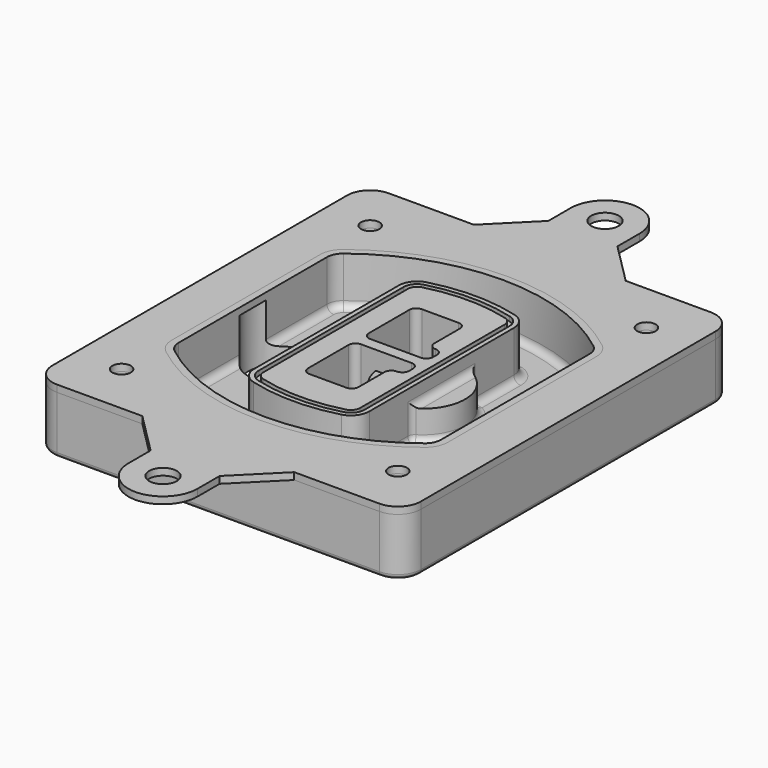
from build123d import *

# Parameters (mm, degrees)
F0_R      = 4
F1_DEPTH  = 25
F2_DEPTH  = 3
F3_DEPTH  = 18
F5_DEPTH  = 21
F6_DEPTH  = 2
F8_DEPTH  = 20
F9_DEPTH  = 16
F10_DEPTH = 25
F7_R      = 6
F7_R_2    = 4
F11_DEPTH = 6
F13_DEPTH = 9
F14_R     = 3
F15_R     = 2
F16_R     = 6
F16_R_2   = 4
F17_DEPTH = 3


with BuildPart() as f1:
    # F0 (on Top) → F1 (new body)
    with BuildSketch(Plane.XY):
        with BuildLine():
            ThreePointArc((-80, -80), (-77.0710678119, -87.0710678119), (-70, -90))
            Line((-70, -90), (70, -90))
            ThreePointArc((70, -90), (77.0710678119, -87.0710678119), (80, -80))
            Line((80, -80), (80, 80))
            ThreePointArc((80, 80), (77.0710678119, 87.0710678119), (70, 90))
            Line((70, 90), (-70, 90))
            ThreePointArc((-70, 90), (-77.0710678119, 87.0710678119), (-80, 80))
            Line((-80, 80), (-80, -80))
        make_face()
        with Locations((-60, -67.5)):
            Circle(F0_R, mode=Mode.SUBTRACT)
        with Locations((60, -67.5)):
            Circle(F0_R, mode=Mode.SUBTRACT)
        with Locations((-60, 67.5)):
            Circle(F0_R, mode=Mode.SUBTRACT)
        with BuildLine():
            ThreePointArc((-64, 40.2934422872), (-62.5820384798, 46.4328484224), (-58.6153846154, 51.3286200352))
            ThreePointArc((-58.6153846154, 51.3286200352), (0, 71.5), (58.6153846154, 51.3286200352))
            ThreePointArc((58.6153846154, 51.3286200352), (62.5820384798, 46.4328484224), (64, 40.2934422872))
            Line((64, 40.2934422872), (64, -40.2934422872))
            ThreePointArc((64, -40.2934422872), (62.5820384798, -46.4328484224), (58.6153846154, -51.3286200352))
            ThreePointArc((58.6153846154, -51.3286200352), (0, -71.5), (-58.6153846154, -51.3286200352))
            ThreePointArc((-58.6153846154, -51.3286200352), (-62.5820384798, -46.4328484224), (-64, -40.2934422872))
            Line((-64, -40.2934422872), (-64, 40.2934422872))
        make_face(mode=Mode.SUBTRACT)
        with Locations((60, 67.5)):
            Circle(F0_R, mode=Mode.SUBTRACT)
        with BuildLine():
            ThreePointArc((58.6153846154, 51.3286200352), (0, 71.5), (-58.6153846154, 51.3286200352))
            ThreePointArc((-58.6153846154, 51.3286200352), (-62.5820384798, 46.4328484224), (-64, 40.2934422872))
            Line((-64, 40.2934422872), (-64, -40.2934422872))
            ThreePointArc((-64, -40.2934422872), (-62.5820384798, -46.4328484224), (-58.6153846154, -51.3286200352))
            ThreePointArc((-58.6153846154, -51.3286200352), (0, -71.5), (58.6153846154, -51.3286200352))
            ThreePointArc((58.6153846154, -51.3286200352), (62.5820384798, -46.4328484224), (64, -40.2934422872))
            Line((64, -40.2934422872), (64, 40.2934422872))
            ThreePointArc((64, 40.2934422872), (62.5820384798, 46.4328484224), (58.6153846154, 51.3286200352))
        make_face()
        with BuildLine():
            Line((-60, -40.2934422872), (-60, 40.2934422872))
            ThreePointArc((-60, 40.2934422872), (-58.9871703427, 44.6787323838), (-56.1538461538, 48.1757121072))
            ThreePointArc((-56.1538461538, 48.1757121072), (0, 67.5), (56.1538461538, 48.1757121072))
            ThreePointArc((56.1538461538, 48.1757121072), (58.9871703427, 44.6787323838), (60, 40.2934422872))
            Line((60, 40.2934422872), (60, -40.2934422872))
            ThreePointArc((60, -40.2934422872), (58.9871703427, -44.6787323838), (56.1538461538, -48.1757121072))
            ThreePointArc((56.1538461538, -48.1757121072), (0, -67.5), (-56.1538461538, -48.1757121072))
            ThreePointArc((-56.1538461538, -48.1757121072), (-58.9871703427, -44.6787323838), (-60, -40.2934422872))
        make_face(mode=Mode.SUBTRACT)
        with BuildLine():
            ThreePointArc((-56.1538461538, 48.1757121072), (-58.9871703427, 44.6787323838), (-60, 40.2934422872))
            Line((-60, 40.2934422872), (-60, -40.2934422872))
            ThreePointArc((-60, -40.2934422872), (-58.9871703427, -44.6787323838), (-56.1538461538, -48.1757121072))
            ThreePointArc((-56.1538461538, -48.1757121072), (0, -67.5), (56.1538461538, -48.1757121072))
            ThreePointArc((56.1538461538, -48.1757121072), (58.9871703427, -44.6787323838), (60, -40.2934422872))
            Line((60, -40.2934422872), (60, 40.2934422872))
            ThreePointArc((60, 40.2934422872), (58.9871703427, 44.6787323838), (56.1538461538, 48.1757121072))
            ThreePointArc((56.1538461538, 48.1757121072), (0, 67.5), (-56.1538461538, 48.1757121072))
        make_face()
        with BuildLine():
            ThreePointArc((54.3076923077, 45.8110311612), (56.2910192399, 43.3631453548), (57, 40.2934422872))
            Line((57, 40.2934422872), (57, -40.2934422872))
            ThreePointArc((57, -40.2934422872), (56.2910192399, -43.3631453548), (54.3076923077, -45.8110311612))
            ThreePointArc((54.3076923077, -45.8110311612), (0, -64.5), (-54.3076923077, -45.8110311612))
            ThreePointArc((-54.3076923077, -45.8110311612), (-56.2910192399, -43.3631453548), (-57, -40.2934422872))
            Line((-57, -40.2934422872), (-57, 40.2934422872))
            ThreePointArc((-57, 40.2934422872), (-56.2910192399, 43.3631453548), (-54.3076923077, 45.8110311612))
            ThreePointArc((-54.3076923077, 45.8110311612), (0, 64.5), (54.3076923077, 45.8110311612))
        make_face(mode=Mode.SUBTRACT)
        with BuildLine():
            Line((57, -40.2934422872), (57, 40.2934422872))
            ThreePointArc((57, 40.2934422872), (56.2910192399, 43.3631453548), (54.3076923077, 45.8110311612))
            ThreePointArc((54.3076923077, 45.8110311612), (0, 64.5), (-54.3076923077, 45.8110311612))
            ThreePointArc((-54.3076923077, 45.8110311612), (-56.2910192399, 43.3631453548), (-57, 40.2934422872))
            Line((-57, 40.2934422872), (-57, -40.2934422872))
            ThreePointArc((-57, -40.2934422872), (-56.2910192399, -43.3631453548), (-54.3076923077, -45.8110311612))
            ThreePointArc((-54.3076923077, -45.8110311612), (0, -64.5), (54.3076923077, -45.8110311612))
            ThreePointArc((54.3076923077, -45.8110311612), (56.2910192399, -43.3631453548), (57, -40.2934422872))
        make_face()
    extrude(amount=-F1_DEPTH)

    # F0 (on Top) → F2 (join)
    with BuildSketch(Plane.XY):
        with BuildLine():
            ThreePointArc((-56.1538461538, 48.1757121072), (-58.9871703427, 44.6787323838), (-60, 40.2934422872))
            Line((-60, 40.2934422872), (-60, -40.2934422872))
            ThreePointArc((-60, -40.2934422872), (-58.9871703427, -44.6787323838), (-56.1538461538, -48.1757121072))
            ThreePointArc((-56.1538461538, -48.1757121072), (0, -67.5), (56.1538461538, -48.1757121072))
            ThreePointArc((56.1538461538, -48.1757121072), (58.9871703427, -44.6787323838), (60, -40.2934422872))
            Line((60, -40.2934422872), (60, 40.2934422872))
            ThreePointArc((60, 40.2934422872), (58.9871703427, 44.6787323838), (56.1538461538, 48.1757121072))
            ThreePointArc((56.1538461538, 48.1757121072), (0, 67.5), (-56.1538461538, 48.1757121072))
        make_face()
        with BuildLine():
            ThreePointArc((54.3076923077, 45.8110311612), (56.2910192399, 43.3631453548), (57, 40.2934422872))
            Line((57, 40.2934422872), (57, -40.2934422872))
            ThreePointArc((57, -40.2934422872), (56.2910192399, -43.3631453548), (54.3076923077, -45.8110311612))
            ThreePointArc((54.3076923077, -45.8110311612), (0, -64.5), (-54.3076923077, -45.8110311612))
            ThreePointArc((-54.3076923077, -45.8110311612), (-56.2910192399, -43.3631453548), (-57, -40.2934422872))
            Line((-57, -40.2934422872), (-57, 40.2934422872))
            ThreePointArc((-57, 40.2934422872), (-56.2910192399, 43.3631453548), (-54.3076923077, 45.8110311612))
            ThreePointArc((-54.3076923077, 45.8110311612), (0, 64.5), (54.3076923077, 45.8110311612))
        make_face(mode=Mode.SUBTRACT)
    extrude(amount=F2_DEPTH)

    # F0 (on Top) → F3 (cut)
    with BuildSketch(Plane.XY):
        with BuildLine():
            Line((57, -40.2934422872), (57, 40.2934422872))
            ThreePointArc((57, 40.2934422872), (56.2910192399, 43.3631453548), (54.3076923077, 45.8110311612))
            ThreePointArc((54.3076923077, 45.8110311612), (0, 64.5), (-54.3076923077, 45.8110311612))
            ThreePointArc((-54.3076923077, 45.8110311612), (-56.2910192399, 43.3631453548), (-57, 40.2934422872))
            Line((-57, 40.2934422872), (-57, -40.2934422872))
            ThreePointArc((-57, -40.2934422872), (-56.2910192399, -43.3631453548), (-54.3076923077, -45.8110311612))
            ThreePointArc((-54.3076923077, -45.8110311612), (0, -64.5), (54.3076923077, -45.8110311612))
            ThreePointArc((54.3076923077, -45.8110311612), (56.2910192399, -43.3631453548), (57, -40.2934422872))
        make_face()
    extrude(amount=-F3_DEPTH, mode=Mode.SUBTRACT)

    # F4 (on face) → F5 (join, through all)
    with BuildSketch(Plane.XY.offset(3)):
        with BuildLine():
            ThreePointArc((-25, -39.2465276821), (-23.3511545998, -44.1109737193), (-19.0842911877, -46.9702398883))
            ThreePointArc((-19.0842911877, -46.9702398883), (0, -49.5), (19.0842911877, -46.9702398883))
            ThreePointArc((19.0842911877, -46.9702398883), (23.3511545998, -44.1109737193), (25, -39.2465276821))
            Line((25, -39.2465276821), (25, 39.2465276821))
            ThreePointArc((25, 39.2465276821), (23.3511545998, 44.1109737193), (19.0842911877, 46.9702398883))
            ThreePointArc((19.0842911877, 46.9702398883), (0, 49.5), (-19.0842911877, 46.9702398883))
            ThreePointArc((-19.0842911877, 46.9702398883), (-23.3511545998, 44.1109737193), (-25, 39.2465276821))
            Line((-25, 39.2465276821), (-25, -39.2465276821))
        make_face()
        with BuildLine():
            ThreePointArc((18.5632183908, 45.0393118368), (21.7633659499, 42.89486221), (23, 39.2465276821))
            Line((23, 39.2465276821), (23, -39.2465276821))
            ThreePointArc((23, -39.2465276821), (21.7633659499, -42.89486221), (18.5632183908, -45.0393118368))
            ThreePointArc((18.5632183908, -45.0393118368), (0, -47.5), (-18.5632183908, -45.0393118368))
            ThreePointArc((-18.5632183908, -45.0393118368), (-21.7633659499, -42.89486221), (-23, -39.2465276821))
            Line((-23, -39.2465276821), (-23, 39.2465276821))
            ThreePointArc((-23, 39.2465276821), (-21.7633659499, 42.89486221), (-18.5632183908, 45.0393118368))
            ThreePointArc((-18.5632183908, 45.0393118368), (0, 47.5), (18.5632183908, 45.0393118368))
        make_face(mode=Mode.SUBTRACT)
        with BuildLine():
            Line((23, -39.2465276821), (23, 39.2465276821))
            ThreePointArc((23, 39.2465276821), (21.7633659499, 42.89486221), (18.5632183908, 45.0393118368))
            ThreePointArc((18.5632183908, 45.0393118368), (0, 47.5), (-18.5632183908, 45.0393118368))
            ThreePointArc((-18.5632183908, 45.0393118368), (-21.7633659499, 42.89486221), (-23, 39.2465276821))
            Line((-23, 39.2465276821), (-23, -39.2465276821))
            ThreePointArc((-23, -39.2465276821), (-21.7633659499, -42.89486221), (-18.5632183908, -45.0393118368))
            ThreePointArc((-18.5632183908, -45.0393118368), (0, -47.5), (18.5632183908, -45.0393118368))
            ThreePointArc((18.5632183908, -45.0393118368), (21.7633659499, -42.89486221), (23, -39.2465276821))
        make_face()
        with BuildLine():
            ThreePointArc((18.0421455939, 43.1083837852), (20.1755772999, 41.6787507007), (21, 39.2465276821))
            Line((21, 39.2465276821), (21, -39.2465276821))
            ThreePointArc((21, -39.2465276821), (20.1755772999, -41.6787507007), (18.0421455939, -43.1083837852))
            ThreePointArc((18.0421455939, -43.1083837852), (0, -45.5), (-18.0421455939, -43.1083837852))
            ThreePointArc((-18.0421455939, -43.1083837852), (-20.1755772999, -41.6787507007), (-21, -39.2465276821))
            Line((-21, -39.2465276821), (-21, 39.2465276821))
            ThreePointArc((-21, 39.2465276821), (-20.1755772999, 41.6787507007), (-18.0421455939, 43.1083837852))
            ThreePointArc((-18.0421455939, 43.1083837852), (0, 45.5), (18.0421455939, 43.1083837852))
        make_face(mode=Mode.SUBTRACT)
        with BuildLine():
            Line((21, -39.2465276821), (21, 39.2465276821))
            ThreePointArc((21, 39.2465276821), (20.1755772999, 41.6787507007), (18.0421455939, 43.1083837852))
            ThreePointArc((18.0421455939, 43.1083837852), (0, 45.5), (-18.0421455939, 43.1083837852))
            ThreePointArc((-18.0421455939, 43.1083837852), (-20.1755772999, 41.6787507007), (-21, 39.2465276821))
            Line((-21, 39.2465276821), (-21, -39.2465276821))
            ThreePointArc((-21, -39.2465276821), (-20.1755772999, -41.6787507007), (-18.0421455939, -43.1083837852))
            ThreePointArc((-18.0421455939, -43.1083837852), (0, -45.5), (18.0421455939, -43.1083837852))
            ThreePointArc((18.0421455939, -43.1083837852), (20.1755772999, -41.6787507007), (21, -39.2465276821))
        make_face()
        with BuildLine():
            Line((-8, -2.5), (14, -2.5))
            ThreePointArc((14, -2.5), (16.1213203436, -3.3786796564), (17, -5.5))
            Line((17, -5.5), (17, -7.5))
            ThreePointArc((17, -7.5), (16.1213203436, -9.6213203436), (14, -10.5))
            ThreePointArc((14, -10.5), (11.8786796564, -11.3786796564), (11, -13.5))
            Line((11, -13.5), (11, -27.5))
            ThreePointArc((11, -27.5), (10.1213203436, -29.6213203436), (8, -30.5))
            Line((8, -30.5), (-8, -30.5))
            ThreePointArc((-8, -30.5), (-10.1213203436, -29.6213203436), (-11, -27.5))
            Line((-11, -27.5), (-11, -5.5))
            ThreePointArc((-11, -5.5), (-10.1213203436, -3.3786796564), (-8, -2.5))
        make_face(mode=Mode.SUBTRACT)
        with BuildLine():
            ThreePointArc((-8, 2.5), (-10.1213203436, 3.3786796564), (-11, 5.5))
            Line((-11, 5.5), (-11, 27.5))
            ThreePointArc((-11, 27.5), (-10.1213203436, 29.6213203436), (-8, 30.5))
            Line((-8, 30.5), (8, 30.5))
            ThreePointArc((8, 30.5), (10.1213203436, 29.6213203436), (11, 27.5))
            Line((11, 27.5), (11, 13.5))
            ThreePointArc((11, 13.5), (11.8786796564, 11.3786796564), (14, 10.5))
            ThreePointArc((14, 10.5), (16.1213203436, 9.6213203436), (17, 7.5))
            Line((17, 7.5), (17, 5.5))
            ThreePointArc((17, 5.5), (16.1213203436, 3.3786796564), (14, 2.5))
            Line((14, 2.5), (-8, 2.5))
        make_face(mode=Mode.SUBTRACT)
    extrude(amount=-F5_DEPTH)

    # F4 (on face) → F6 (cut)
    with BuildSketch(Plane.XY.offset(3)):
        with BuildLine():
            Line((23, -39.2465276821), (23, 39.2465276821))
            ThreePointArc((23, 39.2465276821), (21.7633659499, 42.89486221), (18.5632183908, 45.0393118368))
            ThreePointArc((18.5632183908, 45.0393118368), (0, 47.5), (-18.5632183908, 45.0393118368))
            ThreePointArc((-18.5632183908, 45.0393118368), (-21.7633659499, 42.89486221), (-23, 39.2465276821))
            Line((-23, 39.2465276821), (-23, -39.2465276821))
            ThreePointArc((-23, -39.2465276821), (-21.7633659499, -42.89486221), (-18.5632183908, -45.0393118368))
            ThreePointArc((-18.5632183908, -45.0393118368), (0, -47.5), (18.5632183908, -45.0393118368))
            ThreePointArc((18.5632183908, -45.0393118368), (21.7633659499, -42.89486221), (23, -39.2465276821))
        make_face()
        with BuildLine():
            ThreePointArc((18.0421455939, 43.1083837852), (20.1755772999, 41.6787507007), (21, 39.2465276821))
            Line((21, 39.2465276821), (21, -39.2465276821))
            ThreePointArc((21, -39.2465276821), (20.1755772999, -41.6787507007), (18.0421455939, -43.1083837852))
            ThreePointArc((18.0421455939, -43.1083837852), (0, -45.5), (-18.0421455939, -43.1083837852))
            ThreePointArc((-18.0421455939, -43.1083837852), (-20.1755772999, -41.6787507007), (-21, -39.2465276821))
            Line((-21, -39.2465276821), (-21, 39.2465276821))
            ThreePointArc((-21, 39.2465276821), (-20.1755772999, 41.6787507007), (-18.0421455939, 43.1083837852))
            ThreePointArc((-18.0421455939, 43.1083837852), (0, 45.5), (18.0421455939, 43.1083837852))
        make_face(mode=Mode.SUBTRACT)
    extrude(amount=-F6_DEPTH, mode=Mode.SUBTRACT)

    # F7 (on face) → F8 (join)
    with BuildSketch(Plane(origin=(0, 0, -25), x_dir=(1, 0, 0), z_dir=(0, 0, -1))):
        with BuildLine():
            ThreePointArc((3.28842436, 0), (16.7567035675, 13.4682792075), (30.224982775, 0))
            Line((30.224982775, 0), (35.224982775, 0))
            ThreePointArc((35.224982775, 0), (16.7567035675, 18.4682792075), (-1.71157564, 0))
            Line((-1.71157564, 0), (3.28842436, 0))
        make_face()
        with BuildLine():
            Line((3.28842436, 0), (30.224982775, 0))
            ThreePointArc((30.224982775, 0), (16.7567035675, 13.4682792075), (3.28842436, 0))
        make_face()
        with BuildLine():
            ThreePointArc((3.28842436, 0), (16.7567035675, -13.4682792075), (30.224982775, 0))
            Line((30.224982775, 0), (3.28842436, 0))
        make_face()
        with BuildLine():
            Line((35.224982775, 0), (30.224982775, 0))
            ThreePointArc((30.224982775, 0), (16.7567035675, -13.4682792075), (3.28842436, 0))
            Line((3.28842436, 0), (-1.71157564, 0))
            ThreePointArc((-1.71157564, 0), (16.7567035675, -18.4682792075), (35.224982775, 0))
        make_face()
    extrude(amount=-F8_DEPTH)

    # F7 (on face) → F9 (cut)
    with BuildSketch(Plane(origin=(0, 0, -25), x_dir=(1, 0, 0), z_dir=(0, 0, -1))):
        with BuildLine():
            Line((3.28842436, 0), (30.224982775, 0))
            ThreePointArc((30.224982775, 0), (16.7567035675, 13.4682792075), (3.28842436, 0))
        make_face()
        with BuildLine():
            ThreePointArc((3.28842436, 0), (16.7567035675, -13.4682792075), (30.224982775, 0))
            Line((30.224982775, 0), (3.28842436, 0))
        make_face()
    extrude(amount=-F9_DEPTH, mode=Mode.SUBTRACT)

    # F7 (on face) → F10 (cut)
    with BuildSketch(Plane(origin=(0, 0, -25), x_dir=(1, 0, 0), z_dir=(0, 0, -1))):
        with BuildLine():
            Line((-59.0318229325, 0), (-32.0952645175, 0))
            ThreePointArc((-32.0952645175, 0), (-45.563543725, 13.4682792075), (-59.0318229325, 0))
        make_face()
        with BuildLine():
            ThreePointArc((-59.0318229325, 0), (-45.563543725, -13.4682792075), (-32.0952645175, 0))
            Line((-32.0952645175, 0), (-59.0318229325, 0))
        make_face()
    extrude(amount=-F10_DEPTH, mode=Mode.SUBTRACT)

    # F7 (on face) → F11 (cut)
    with BuildSketch(Plane(origin=(0, 0, -25), x_dir=(1, 0, 0), z_dir=(0, 0, -1))):
        with Locations((60, -67.5)):
            Circle(F7_R)
        with Locations((60, -67.5)):
            Circle(F7_R_2, mode=Mode.SUBTRACT)
        with Locations((60, -67.5)):
            Circle(F7_R)
        with Locations((60, -67.5)):
            Circle(F7_R_2, mode=Mode.SUBTRACT)
        with Locations((-60, -67.5)):
            Circle(F7_R)
        with Locations((-60, -67.5)):
            Circle(F7_R_2, mode=Mode.SUBTRACT)
        with Locations((-60, -67.5)):
            Circle(F7_R)
        with Locations((-60, -67.5)):
            Circle(F7_R_2, mode=Mode.SUBTRACT)
        with Locations((-60, 67.5)):
            Circle(F7_R)
        with Locations((-60, 67.5)):
            Circle(F7_R_2, mode=Mode.SUBTRACT)
        with Locations((-60, 67.5)):
            Circle(F7_R)
        with Locations((-60, 67.5)):
            Circle(F7_R_2, mode=Mode.SUBTRACT)
        with Locations((60, 67.5)):
            Circle(F7_R)
        with Locations((60, 67.5)):
            Circle(F7_R_2, mode=Mode.SUBTRACT)
        with Locations((60, 67.5)):
            Circle(F7_R)
        with Locations((60, 67.5)):
            Circle(F7_R_2, mode=Mode.SUBTRACT)
    extrude(amount=-F11_DEPTH, mode=Mode.SUBTRACT)

    # F12 (on face) → F13 (cut, through all)
    with BuildSketch(Plane(origin=(0, 0, -9), x_dir=(1, 0, 0), z_dir=(0, 0, -1))):
        with BuildLine():
            Line((11, 13.5), (11, 17.5481537753))
            ThreePointArc((11, 17.5481537753), (2.5696536419, 11.8239143813), (-1.5415842455, 2.5))
            Line((-1.5415842455, 2.5), (3.5224848595, 2.5))
            ThreePointArc((3.5224848595, 2.5), (6.1857188154, 8.3455872281), (11.2536447004, 12.2927168648))
            ThreePointArc((11.2536447004, 12.2927168648), (11.0640958889, 12.8831798879), (11, 13.5))
        make_face()
        with BuildLine():
            ThreePointArc((11.2536447004, -12.2927168648), (6.1857188154, -8.3455872281), (3.5224848595, -2.5))
            Line((3.5224848595, -2.5), (-1.5415842455, -2.5))
            ThreePointArc((-1.5415842455, -2.5), (2.5696536419, -11.8239143813), (11, -17.5481537753))
            Line((11, -17.5481537753), (11, -13.5))
            ThreePointArc((11, -13.5), (11.0640958889, -12.8831798879), (11.2536447004, -12.2927168648))
        make_face()
        with BuildLine():
            ThreePointArc((11.2536447004, 12.2927168648), (6.1857188154, 8.3455872281), (3.5224848595, 2.5))
            Line((3.5224848595, 2.5), (14, 2.5))
            ThreePointArc((14, 2.5), (16.1213203436, 3.3786796564), (17, 5.5))
            Line((17, 5.5), (17, 7.5))
            ThreePointArc((17, 7.5), (16.1213203436, 9.6213203436), (14, 10.5))
            ThreePointArc((14, 10.5), (12.3601599782, 10.9878446101), (11.2536447004, 12.2927168648))
        make_face()
        with BuildLine():
            Line((14, -2.5), (3.5224848595, -2.5))
            ThreePointArc((3.5224848595, -2.5), (6.1857188154, -8.3455872281), (11.2536447004, -12.2927168648))
            ThreePointArc((11.2536447004, -12.2927168648), (12.3601599782, -10.9878446101), (14, -10.5))
            ThreePointArc((14, -10.5), (16.1213203436, -9.6213203436), (17, -7.5))
            Line((17, -7.5), (17, -5.5))
            ThreePointArc((17, -5.5), (16.1213203436, -3.3786796564), (14, -2.5))
        make_face()
    extrude(amount=F13_DEPTH, mode=Mode.SUBTRACT)

    # F14
    f14_edges = [f1.edges().sort_by_distance(p)[0] for p in [
        (-57, -23.703476, -18),
        (-57, 23.703476, -18),
        (25, 0, -5),
        (25, 16.526506, -11.5),
        (25, -16.526506, -11.5),
        (25, -27.886517, -18),
        (35.224983, 0, -18),
    ]]
    fillet(f14_edges, radius=F14_R)

    # F15
    f15_edges = [f1.edges().sort_by_distance(p)[0] for p in [
        (0, -90, -25),
    ]]
    fillet(f15_edges, radius=F15_R)


with BuildPart() as f17:
    # F16 (on face) → F17 (new body, through all)
    with BuildSketch(Plane.XY):
        with BuildLine():
            Line((14.9999197611, 108), (14.9999197611, 119.9999679045))
            ThreePointArc((14.9999197611, 119.9999679045), (-4.01194e-05, 135.0346605755), (-15, 119.9999679045))
            Line((-15, 119.9999679045), (-14.9722458631, 108))
            Line((-14.9722458631, 108), (-32.9722458631, 90))
            Line((-32.9722458631, 90), (32.9999197611, 90))
            Line((32.9999197611, 90), (14.9999197611, 108))
        make_face()
        with Locations((0, 120)):
            Circle(F16_R, mode=Mode.SUBTRACT)
        with BuildLine():
            Line((14.9999197611, -108), (32.9999197611, -90))
            Line((32.9999197611, -90), (-32.9722458631, -90))
            Line((-32.9722458631, -90), (-14.9722458631, -108))
            Line((-14.9722458631, -108), (-15, -119.9999679045))
            ThreePointArc((-15, -119.9999679045), (-4.01194e-05, -135.0346605755), (14.9999197611, -119.9999679045))
            Line((14.9999197611, -119.9999679045), (14.9999197611, -108))
        make_face()
        with Locations((0, -120)):
            Circle(F16_R, mode=Mode.SUBTRACT)
        with BuildLine():
            Line((70, 90), (32.9999197611, 90))
            Line((32.9999197611, 90), (-32.9722458631, 90))
            Line((-32.9722458631, 90), (-70, 90))
            ThreePointArc((-70, 90), (-77.0710678119, 87.0710678119), (-80, 80))
            Line((-80, 80), (-80, -80))
            ThreePointArc((-80, -80), (-77.0710678119, -87.0710678119), (-70, -90))
            Line((-70, -90), (-32.9722458631, -90))
            Line((-32.9722458631, -90), (32.9999197611, -90))
            Line((32.9999197611, -90), (70, -90))
            ThreePointArc((70, -90), (77.0710678119, -87.0710678119), (80, -80))
            Line((80, -80), (80, 80))
            ThreePointArc((80, 80), (77.0710678119, 87.0710678119), (70, 90))
        make_face()
        with Locations((-60, -67.5)):
            Circle(F16_R_2, mode=Mode.SUBTRACT)
        with BuildLine():
            ThreePointArc((-60, 40.2934422872), (-58.9871703427, 44.6787323838), (-56.1538461538, 48.1757121072))
            ThreePointArc((-56.1538461538, 48.1757121072), (0, 67.5), (56.1538461538, 48.1757121072))
            ThreePointArc((56.1538461538, 48.1757121072), (58.9871703427, 44.6787323838), (60, 40.2934422872))
            Line((60, 40.2934422872), (60, -40.2934422872))
            ThreePointArc((60, -40.2934422872), (58.9871703427, -44.6787323838), (56.1538461538, -48.1757121072))
            ThreePointArc((56.1538461538, -48.1757121072), (0, -67.5), (-56.1538461538, -48.1757121072))
            ThreePointArc((-56.1538461538, -48.1757121072), (-58.9871703427, -44.6787323838), (-60, -40.2934422872))
            Line((-60, -40.2934422872), (-60, 40.2934422872))
        make_face(mode=Mode.SUBTRACT)
        with Locations((60, -67.5)):
            Circle(F16_R_2, mode=Mode.SUBTRACT)
        with Locations((-60, 67.5)):
            Circle(F16_R_2, mode=Mode.SUBTRACT)
        with Locations((60, 67.5)):
            Circle(F16_R_2, mode=Mode.SUBTRACT)
    extrude(amount=F17_DEPTH)


solid = Compound([f1.part, f17.part])
